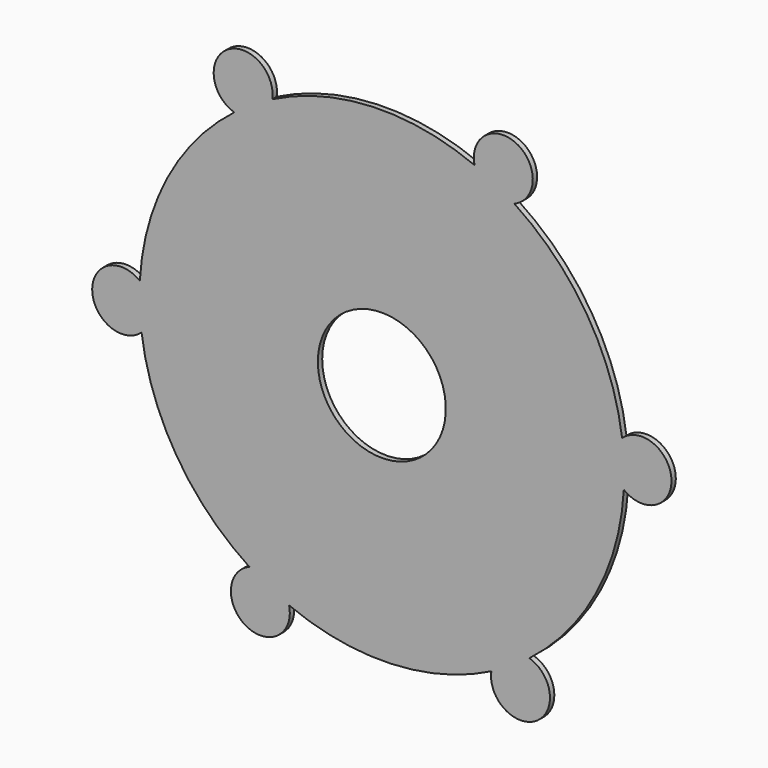
from build123d import *

# Parameters (mm, degrees)
F1_DEPTH = 1.778
F2_D     = 41.91


with BuildPart() as f1:
    # F0 (on Front) → F1 (new body)
    with BuildSketch(Plane.XZ):
        with BuildLine():
            ThreePointArc((35.866425, -70.809534), (50.563695, -80.336742), (48.330608, -62.964617))
            ThreePointArc((48.330608, -62.964617), (42.280856, -67.17678), (35.866425, -70.809534))
        make_face()
        with BuildLine():
            ThreePointArc((30.363654, 73.337843), (37.03637, 70.204686), (43.389643, 66.466003))
            ThreePointArc((43.389643, 66.466003), (44.291812, 83.957815), (30.363654, 73.337843))
        make_face()
        with BuildLine():
            ThreePointArc((-48.330608, 62.964617), (-42.280856, 67.17678), (-35.866425, 70.809534))
            ThreePointArc((-35.866425, 70.809534), (-50.563695, 80.336742), (-48.330608, 62.964617))
        make_face()
        with BuildLine():
            ThreePointArc((78.694262, 10.373226), (79.204633, 5.197769), (79.375, 0))
            ThreePointArc((79.375, 0), (79.345261, -2.17258), (79.256068, -4.343532))
            ThreePointArc((79.256068, -4.343532), (94.855507, 3.621073), (78.694262, 10.373226))
        make_face()
        with BuildLine():
            ThreePointArc((-43.389643, -66.466003), (-44.291812, -83.957815), (-30.363654, -73.337843))
            ThreePointArc((-30.363654, -73.337843), (-37.03637, -70.204686), (-43.389643, -66.466003))
        make_face()
        with BuildLine():
            ThreePointArc((79.256068, -4.343532), (79.345261, -2.17258), (79.375, 0))
            ThreePointArc((79.375, 0), (79.204633, 5.197769), (78.694262, 10.373226))
            ThreePointArc((78.694262, 10.373226), (67.17678, 42.280856), (43.389643, 66.466003))
            ThreePointArc((43.389643, 66.466003), (37.03637, 70.204686), (30.363654, 73.337843))
            ThreePointArc((30.363654, 73.337843), (-3.027905, 79.317226), (-35.866425, 70.809534))
            ThreePointArc((-35.866425, 70.809534), (-42.280856, 67.17678), (-48.330608, 62.964617))
            ThreePointArc((-48.330608, 62.964617), (-70.204686, 37.03637), (-79.256068, 4.343532))
            ThreePointArc((-79.256068, 4.343532), (-79.317226, -3.027905), (-78.694262, -10.373226))
            ThreePointArc((-78.694262, -10.373226), (-67.17678, -42.280856), (-43.389643, -66.466003))
            ThreePointArc((-43.389643, -66.466003), (-37.03637, -70.204686), (-30.363654, -73.337843))
            ThreePointArc((-30.363654, -73.337843), (3.027905, -79.317226), (35.866425, -70.809534))
            ThreePointArc((35.866425, -70.809534), (42.280856, -67.17678), (48.330608, -62.964617))
            ThreePointArc((48.330608, -62.964617), (70.204686, -37.03637), (79.256068, -4.343532))
        make_face()
        with BuildLine():
            ThreePointArc((-78.694262, -10.373226), (-79.317226, -3.027905), (-79.256068, 4.343532))
            ThreePointArc((-79.256068, 4.343532), (-94.855507, -3.621073), (-78.694262, -10.373226))
        make_face()
    extrude(amount=F1_DEPTH)

    # F2 (through all)
    with Locations(Plane(origin=(0, 0, 0), x_dir=(1, 0, 0), z_dir=(0, 1, 0))):
        with Locations((0, 0)):
            Hole(F2_D / 2)


solid = f1.part
